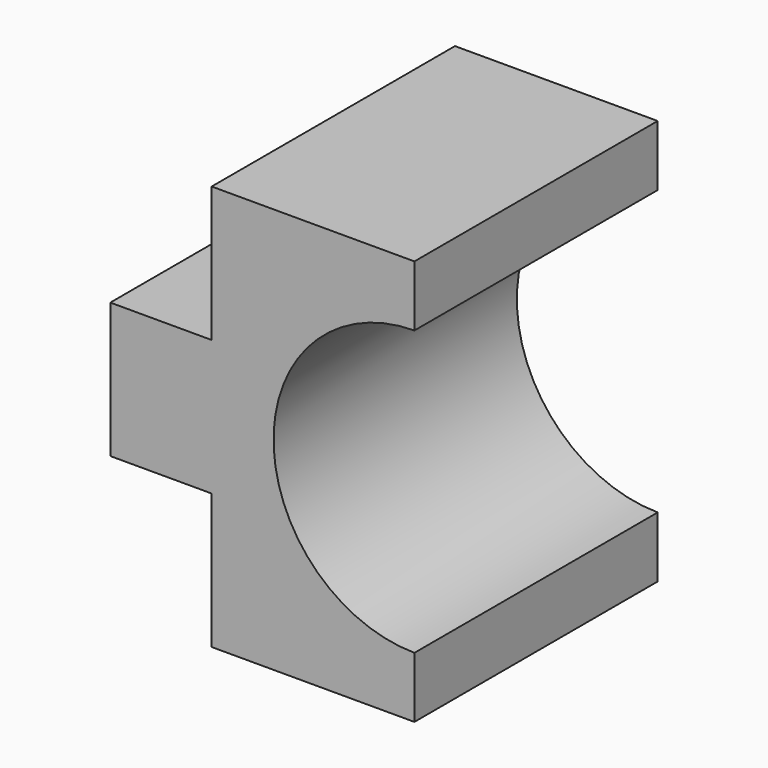
from build123d import *

# Parameters (mm, degrees)
F1_DEPTH = 75


with BuildPart() as f1:
    # F0 (on Front) → F1 (new body)
    with BuildSketch(Plane.XZ):
        with BuildLine():
            Line((0, -15), (0, 0))
            ThreePointArc((0, 0), (-34.73543, 34.995), (0, 69.99))
            Line((0, 69.99), (0, 84.99))
            Line((0, 84.99), (-50, 84.99))
            Line((-50, 84.99), (-50, 51.66))
            Line((-50, 51.66), (-75, 51.66))
            Line((-75, 51.66), (-75, 18.33))
            Line((-75, 18.33), (-50, 18.33))
            Line((-50, 18.33), (-50, -15))
            Line((-50, -15), (0, -15))
        make_face()
    extrude(amount=F1_DEPTH)


solid = f1.part
